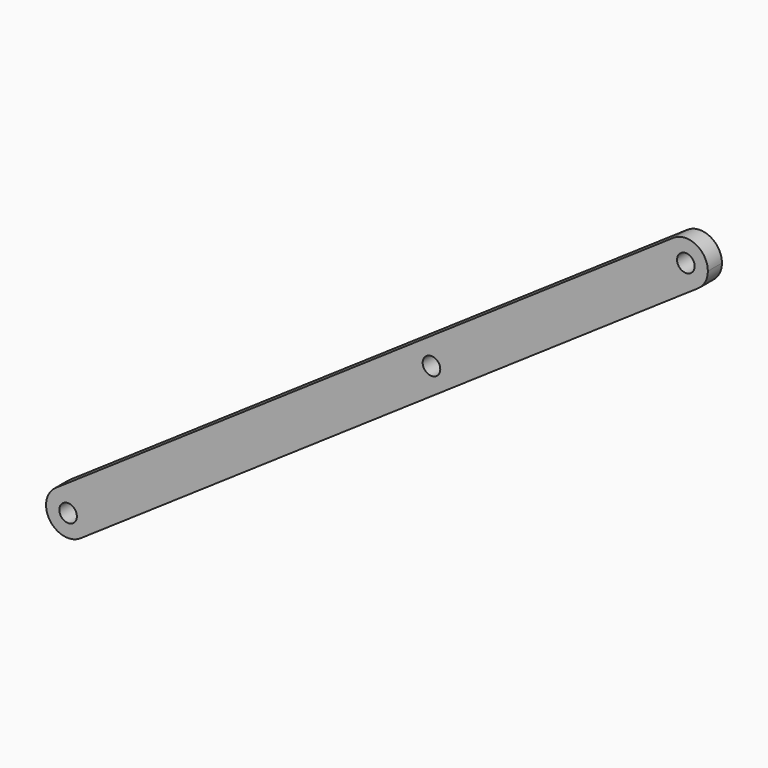
from build123d import *

# Parameters (mm, degrees)
F0_R     = 2.54
F1_DEPTH = 5.08


with BuildPart() as f1:
    # F0 (on Front) → F1 (new body)
    with BuildSketch(Plane.XZ):
        with BuildLine():
            ThreePointArc((-42.2490756804, -10.6206300524), (-40.2114050241, -8.3410427676), (-39.4752932215, -5.3734243105))
            ThreePointArc((-39.4752932215, -5.3734243105), (-42.8576747645, 0.2404638869), (-49.4015107627, -0.1262185685))
            ThreePointArc((-49.4015107627, -0.1262185685), (-51.0724989635, -8.9496418517), (-42.2490756804, -10.6206300524))
        make_face()
        with Locations((-45.8252932215, -5.3734243105)):
            Circle(F0_R, mode=Mode.SUBTRACT)
        with BuildLine():
            ThreePointArc((-49.4015107627, -0.1262185685), (-42.8576747645, 0.2404638869), (-39.4752932215, -5.3734243105))
            ThreePointArc((-39.4752932215, -5.3734243105), (-40.2114050241, -8.3410427676), (-42.2490756804, -10.6206300524))
            Line((-42.2490756804, -10.6206300524), (62.6950390311, 60.9037206843))
            ThreePointArc((62.6950390311, 60.9037206843), (53.8716158307, 62.5747090371), (55.5426040793, 71.3981322572))
            Line((55.5426040793, 71.3981322572), (-49.4015107627, -0.1262185685))
        make_face()
        with BuildLine():
            Line((129.0034844631, 121.4651778314), (55.5426040793, 71.3981322572))
            ThreePointArc((55.5426040793, 71.3981322572), (62.086440076, 71.7648147095), (65.4688216172, 66.150926513))
            ThreePointArc((65.4688216172, 66.150926513), (64.7327097786, 63.1833079879), (62.6950390311, 60.9037206843))
            Line((62.6950390311, 60.9037206843), (136.1559195454, 110.9707663475))
            ThreePointArc((136.1559195454, 110.9707663475), (127.3324962623, 112.6417545483), (129.0034844631, 121.4651778314))
        make_face()
        with BuildLine():
            ThreePointArc((65.4688216172, 66.150926513), (62.086440076, 71.7648147095), (55.5426040793, 71.3981322572))
            ThreePointArc((55.5426040793, 71.3981322572), (53.8716158307, 62.5747090371), (62.6950390311, 60.9037206843))
            ThreePointArc((62.6950390311, 60.9037206843), (64.7327097786, 63.1833079879), (65.4688216172, 66.150926513))
        make_face()
        with Locations((59.1188216172, 66.150926513)):
            Circle(F0_R, mode=Mode.SUBTRACT)
        with BuildLine():
            ThreePointArc((138.9297020042, 116.2179720895), (135.5473204613, 121.8318602869), (129.0034844631, 121.4651778314))
            ThreePointArc((129.0034844631, 121.4651778314), (127.3324962623, 112.6417545483), (136.1559195454, 110.9707663475))
            ThreePointArc((136.1559195454, 110.9707663475), (138.1935902017, 113.2503536324), (138.9297020042, 116.2179720895))
        make_face()
        with Locations((132.5797020042, 116.2179720895)):
            Circle(F0_R, mode=Mode.SUBTRACT)
    extrude(amount=F1_DEPTH)


solid = f1.part
